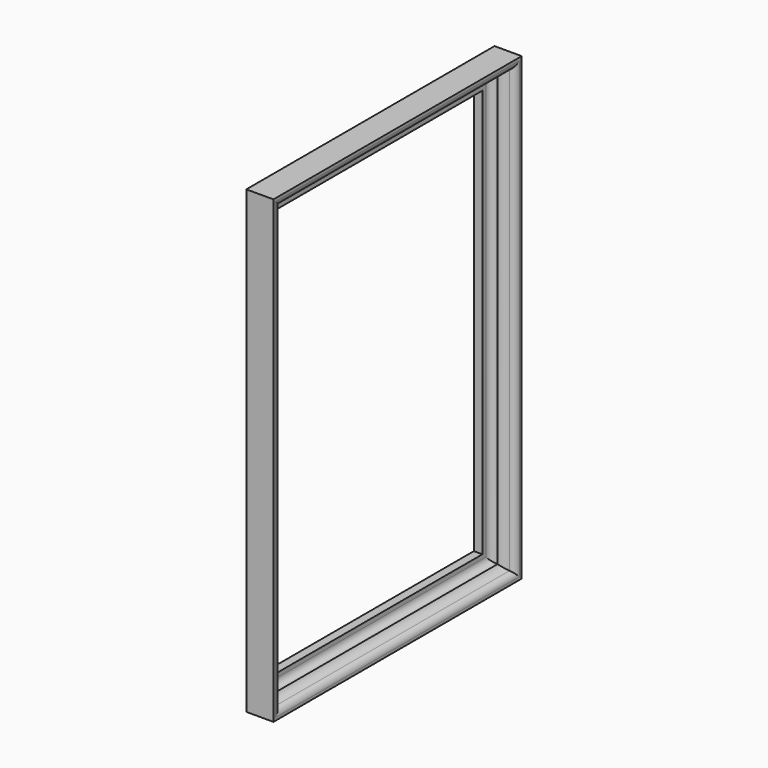
from build123d import *


with BuildPart() as f2:
    # F2: sweep along a path in F1
    with BuildLine(Plane.YZ) as f2_path:
        Line((0, 0), (-302.2992312908, 0))
        Line((-302.2992312908, 0), (-302.2992312908, 448.1892883778))
        Line((-302.2992312908, 448.1892883778), (0, 448.1892883778))
        Line((0, 448.1892883778), (0, 0))
    # F0 (on Front) → F2 (sweep)
    with BuildSketch(Plane.XZ):
        with BuildLine():
            Line((0, 0), (26.4657894149, 0))
            Line((26.4657894149, 0), (26.4657894149, 2.7693303689))
            ThreePointArc((26.4657894149, 2.7693303689), (25.1715128356, 6.6114861042), (21.8162899837, 8.887401782))
            ThreePointArc((21.8162899837, 8.887401782), (17.5906165933, 10.919060614), (14.7032197565, 14.6132307127))
            Line((14.7032197565, 14.6132307127), (14.6818240941, 14.6132307127))
            ThreePointArc((14.6818240941, 14.6132307127), (10.1916960335, 16.4731026522), (8.3318240941, 20.9632307127))
            Line((8.3318240941, 20.9632307127), (8.3318240941, 25.240521878))
            Line((8.3318240941, 25.240521878), (0, 25.240521878))
            Line((0, 25.240521878), (0, 0))
        make_face()
    sweep(path=f2_path.line, transition=Transition.RIGHT)


solid = f2.part
